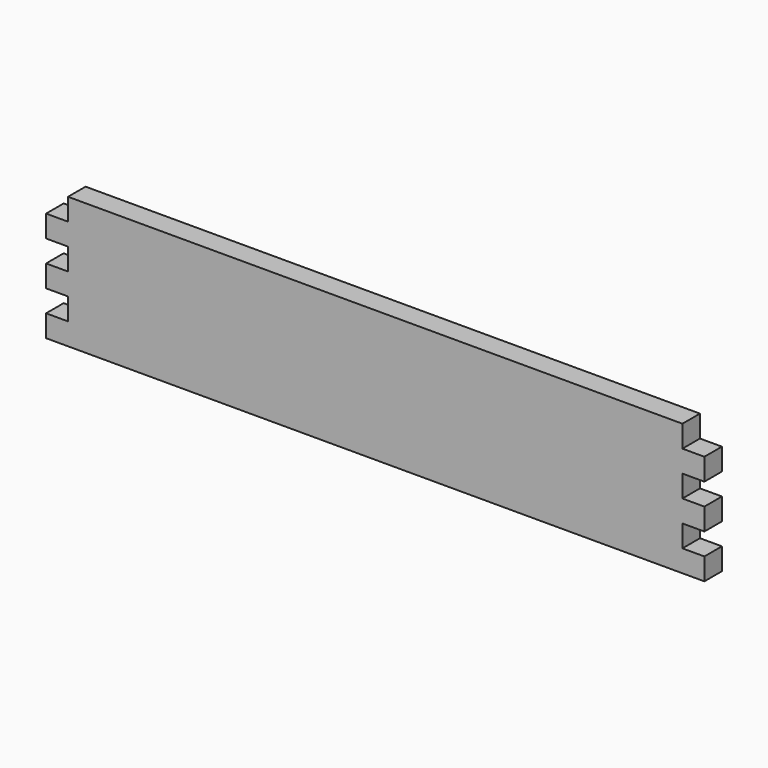
from build123d import *

# Parameters (mm, degrees)
F0_W     = 600
F0_H     = 120
F1_DEPTH = 20
F2_W     = 20
F2_H     = 20
F3_DEPTH = 20
F4_W     = 559
F4_H     = 10
F5_DEPTH = 10


with BuildPart() as f1:
    # F0 (on Front) → F1 (new body)
    with BuildSketch(Plane.XZ):
        Rectangle(F0_W, F0_H)
    extrude(amount=F1_DEPTH)

    # F2 (on face) → F3 (cut, through all)
    with BuildSketch(Plane.XZ.offset(20)):
        with Locations((290, -30)):
            Rectangle(F2_W, F2_H)
        with Locations((290, 10)):
            Rectangle(F2_W, F2_H)
        with Locations((-290, 10)):
            Rectangle(F2_W, F2_H)
        with Locations((-290, -30)):
            Rectangle(F2_W, F2_H)
        with Locations((290, 50)):
            Rectangle(F2_W, F2_H)
        with Locations((-290, 50)):
            Rectangle(F2_W, F2_H)
    extrude(amount=-F3_DEPTH, mode=Mode.SUBTRACT)

    # F4 (on face) → F5 (cut)
    with BuildSketch(Plane(origin=(0, 0, 0), x_dir=(-1, 0, 0), z_dir=(0, 1, 0))):
        with Locations((0, -45)):
            Rectangle(F4_W, F4_H)
    extrude(amount=-F5_DEPTH, mode=Mode.SUBTRACT)


solid = f1.part
